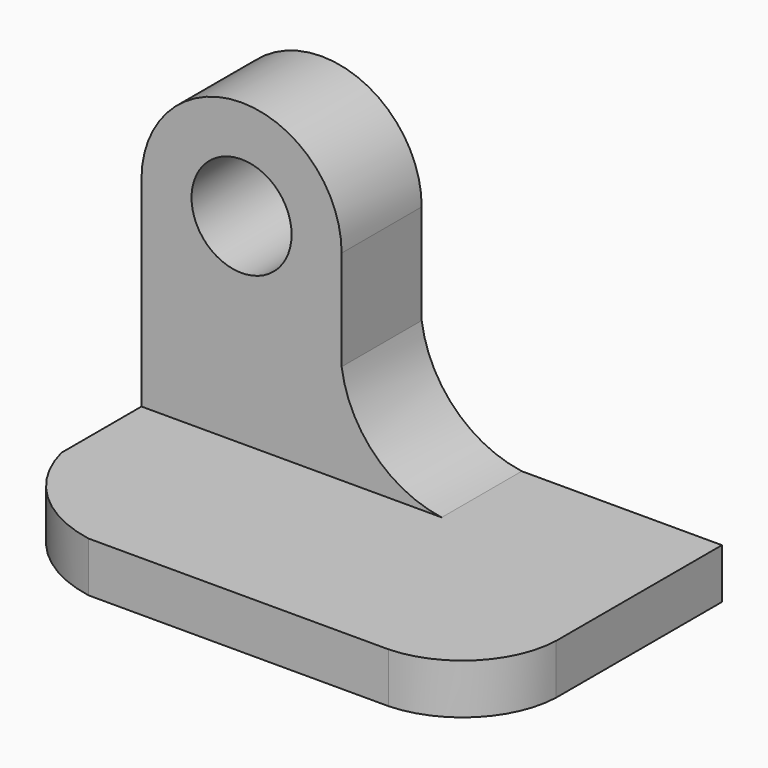
from build123d import *

# Parameters (mm, degrees)
F0_W      = 63.5
F0_H      = 6.35
F1_DEPTH  = 38.1
F3_DEPTH  = 25.4
F5_DEPTH  = 25.4
F6_W      = 25.4
F6_H      = 25.4
F7_DEPTH  = 12.7
F9_DEPTH  = 12.7
F11_DEPTH = 12.7
F12_R     = 6.35
F13_DEPTH = 25.4


with BuildPart() as f1:
    # F0 (on Front) → F1 (new body)
    with BuildSketch(Plane.XZ):
        with Locations((-55.4636918637, 3.175)):
            Rectangle(F0_W, F0_H)
    extrude(amount=F1_DEPTH)

    # F2 (on face) → F3 (cut)
    with BuildSketch(Plane.XY.offset(6.35)):
        with BuildLine():
            ThreePointArc((-23.7136918637, -26.2837559164), (-27.2983828623, -34.5153090014), (-35.5299359473, -38.1))
            Line((-35.5299359473, -38.1), (-23.7136918637, -38.1))
            Line((-23.7136918637, -38.1), (-23.7136918637, -26.2837559164))
        make_face()
    extrude(amount=-F3_DEPTH, mode=Mode.SUBTRACT)

    # F4 (on face) → F5 (cut)
    with BuildSketch(Plane.XY.offset(6.35)):
        with BuildLine():
            ThreePointArc((-73.6299359473, -38.1), (-82.2750994664, -33.7322502916), (-87.2136918637, -25.4))
            Line((-87.2136918637, -25.4), (-87.2136918637, -38.1))
            Line((-87.2136918637, -38.1), (-73.6299359473, -38.1))
        make_face()
    extrude(amount=-F5_DEPTH, mode=Mode.SUBTRACT)

    # F6 (on face) → F7 (join)
    with BuildSketch(Plane(origin=(0, 0, 0), x_dir=(-1, 0, 0), z_dir=(0, 1, 0))):
        with Locations((74.5136918637, 19.05)):
            Rectangle(F6_W, F6_H)
    extrude(amount=-F7_DEPTH)

    # F8 (on face) → F9 (join)
    with BuildSketch(Plane(origin=(0, 0, 0), x_dir=(-1, 0, 0), z_dir=(0, 1, 0))):
        with BuildLine():
            ThreePointArc((61.8136918637, 19.05), (57.5939587617, 10.569733102), (49.1136918637, 6.35))
            Line((49.1136918637, 6.35), (61.8136918637, 6.35))
            Line((61.8136918637, 6.35), (61.8136918637, 19.05))
        make_face()
    extrude(amount=-F9_DEPTH)

    # F10 (on face) → F11 (join)
    with BuildSketch(Plane(origin=(0, 0, 0), x_dir=(-1, 0, 0), z_dir=(0, 1, 0))):
        with BuildLine():
            Line((61.8136918637, 31.75), (87.2136918637, 31.75))
            ThreePointArc((87.2136918637, 31.75), (74.5136918637, 44.45), (61.8136918637, 31.75))
        make_face()
    extrude(amount=-F11_DEPTH)

    # F12 (on face) → F13 (cut)
    with BuildSketch(Plane.XZ.offset(12.7)):
        with Locations((-74.5136918637, 31.75)):
            Circle(F12_R)
    extrude(amount=-F13_DEPTH, mode=Mode.SUBTRACT)


solid = f1.part
